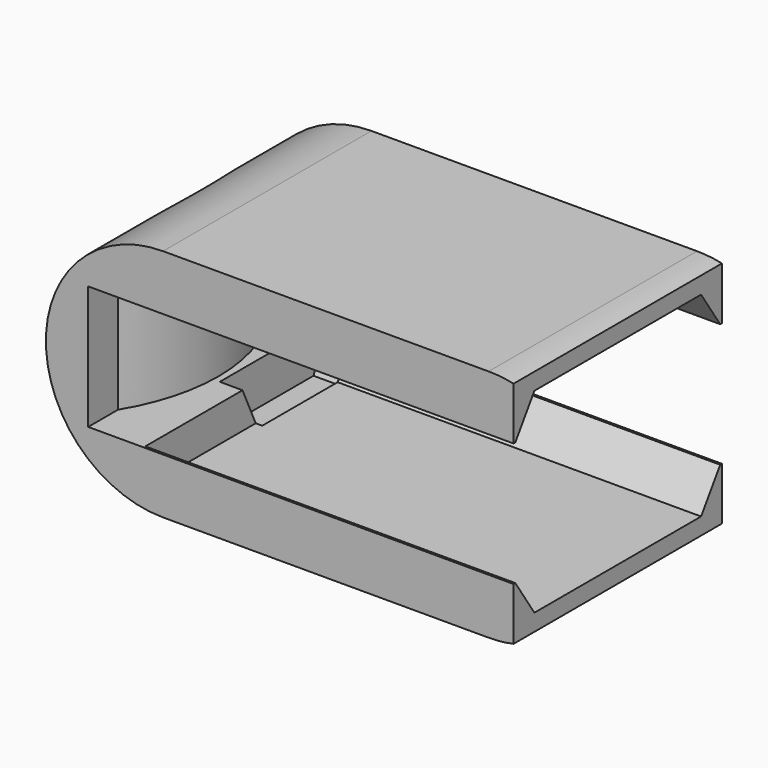
from build123d import *

# Parameters (mm, degrees)
PAD_DEPTH            = 20
SKETCH001_R          = 25
POCKET_DEPTH         = 18.001
POCKET_DEPTH_BACK    = -18.001
POCKET001_DEPTH      = 9.5
POCKET002_DEPTH      = 3
POCKET002_DEPTH_BACK = -55
POCKET003_DEPTH      = 4.5
SKETCH006_W          = 30.00024
SKETCH006_H          = 49.987866
POCKET004_DEPTH      = 20.001
POCKET004_DEPTH_BACK = -20.001


with BuildPart() as part:
    # Sketch → Pad (new body, symmetric)
    with BuildSketch(Plane.XZ):
        with BuildLine():
            ThreePointArc((0, 18), (-18, 0), (0, -18))
            Line((0, -18), (50, -18))
            ThreePointArc((50, -18), (68, 0), (50, 18))
            Line((0, 18), (50, 18))
        make_face()
    extrude(amount=PAD_DEPTH, both=True)

    # Sketch001 → Pocket (cut, two sides)
    with BuildSketch(Plane.XY) as pocket_sk:
        with Locations((-35, 0)):
            Circle(SKETCH001_R)
        with Locations((85, 0)):
            Circle(SKETCH001_R)
    extrude(amount=-POCKET_DEPTH, mode=Mode.SUBTRACT)
    extrude(pocket_sk.sketch, amount=-POCKET_DEPTH_BACK, mode=Mode.SUBTRACT)

    # Sketch002 (on DatumPlane) → Pocket001 (cut, symmetric)
    with BuildSketch(Plane.XY):
        with BuildLine():
            ThreePointArc((-11.5, -14.282857), (-7.5, 0), (-11.5, 14.282857))
            Line((-11.5, 20), (-11.5, 14.282857))
            Line((-11.5, 20), (55, 20))
            Line((55, 20), (55, -20))
            Line((-11.5, -20), (55, -20))
            Line((-11.5, -14.282857), (-11.5, -20))
        make_face()
    extrude(amount=POCKET001_DEPTH, both=True, mode=Mode.SUBTRACT)

    # Sketch003 (on DatumPlane) → Pocket002 (cut, two sides)
    with BuildSketch(Plane.YZ) as pocket002_sk:
        Polygon((-20, 9), (-16, 15), (16, 15), (20, 9), (20, -9), (16, -15), (-16, -15), (-20, -9), align=None)
    extrude(amount=-POCKET002_DEPTH, mode=Mode.SUBTRACT)
    extrude(pocket002_sk.sketch, amount=-POCKET002_DEPTH_BACK, mode=Mode.SUBTRACT)

    # Sketch005 (on DatumPlane) → Pocket003 (cut)
    with BuildSketch(Plane.YZ.offset(-2)):
        Polygon((-17, 16), (-2, 16), (1, 9.5), (-20, 9.5), align=None)
        Polygon((-1, -9.5), (20, -9.5), (17, -16), (2, -16), align=None)
    extrude(amount=-POCKET003_DEPTH, mode=Mode.SUBTRACT)

    # Sketch006 → Pocket004 (cut, two sides)
    with BuildSketch(Plane.XZ) as pocket004_sk:
        with Locations((68.822588, 0.861696)):
            Rectangle(SKETCH006_W, SKETCH006_H)
    extrude(amount=-POCKET004_DEPTH, mode=Mode.SUBTRACT)
    extrude(pocket004_sk.sketch, amount=-POCKET004_DEPTH_BACK, mode=Mode.SUBTRACT)


solid = part.part
